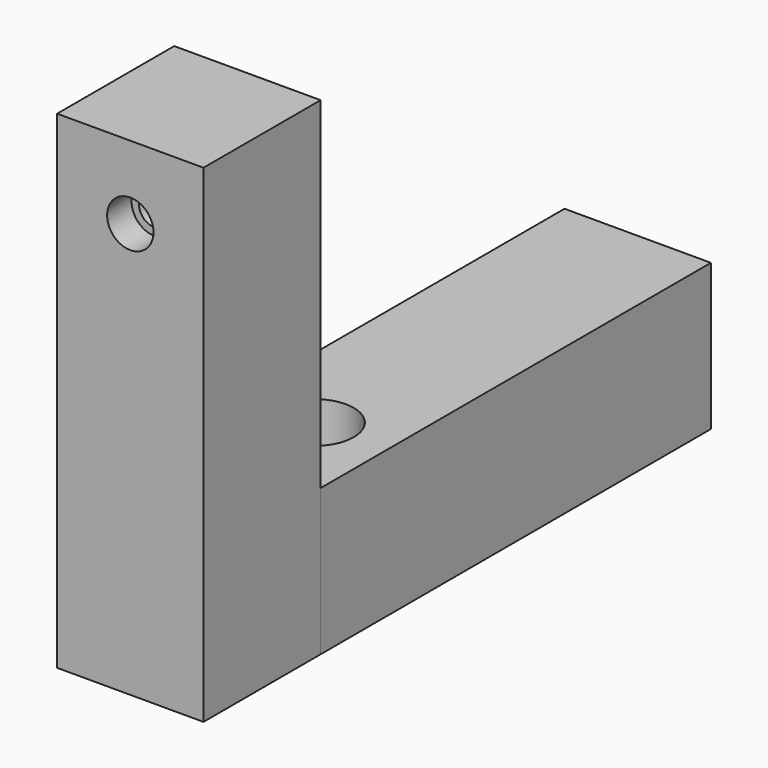
from build123d import *

# Parameters (mm, degrees)
F0_W           = 38.1
F0_H           = 127
F1_DEPTH       = 38.1
F2_W           = 127
F2_H           = 38.1
F3_DEPTH       = 38.1
F5_D           = 8.2042
F5_CBORE_D     = 12.065
F5_CBORE_DEPTH = 7.9375
F6_R           = 10.31875
F7_DEPTH       = 16.764
F8_R           = 10.31875
F9_DEPTH       = 16.764


with BuildPart() as f1:
    # F0 (on Front) → F1 (new body)
    with BuildSketch(Plane.XZ):
        with Locations((19.05, 63.5)):
            Rectangle(F0_W, F0_H)
    extrude(amount=F1_DEPTH)

    # F5 (through all)
    with Locations(Plane.XZ.offset(38.1)):
        with Locations((19.05, 107.95)):
            CounterBoreHole(F5_D / 2, F5_CBORE_D / 2, F5_CBORE_DEPTH)


with BuildPart() as f3:
    # F2 (on face) → F3 (new body)
    with BuildSketch(Plane.YZ.offset(38.1)):
        with Locations((63.5, 19.05)):
            Rectangle(F2_W, F2_H)
    extrude(amount=-F3_DEPTH)

    # F6 (on face) → F7 (cut)
    with BuildSketch(Plane.XY.offset(38.1)):
        with Locations((19.05, 21.717)):
            Circle(F6_R)
    extrude(amount=-F7_DEPTH, mode=Mode.SUBTRACT)

    # F8 (on face) → F9 (cut)
    with BuildSketch(Plane(origin=(0, 0, 0), x_dir=(1, 0, 0), z_dir=(0, 0, -1))):
        with Locations((19.05, -21.717)):
            Circle(F8_R)
    extrude(amount=-F9_DEPTH, mode=Mode.SUBTRACT)


solid = Compound([f1.part, f3.part])
